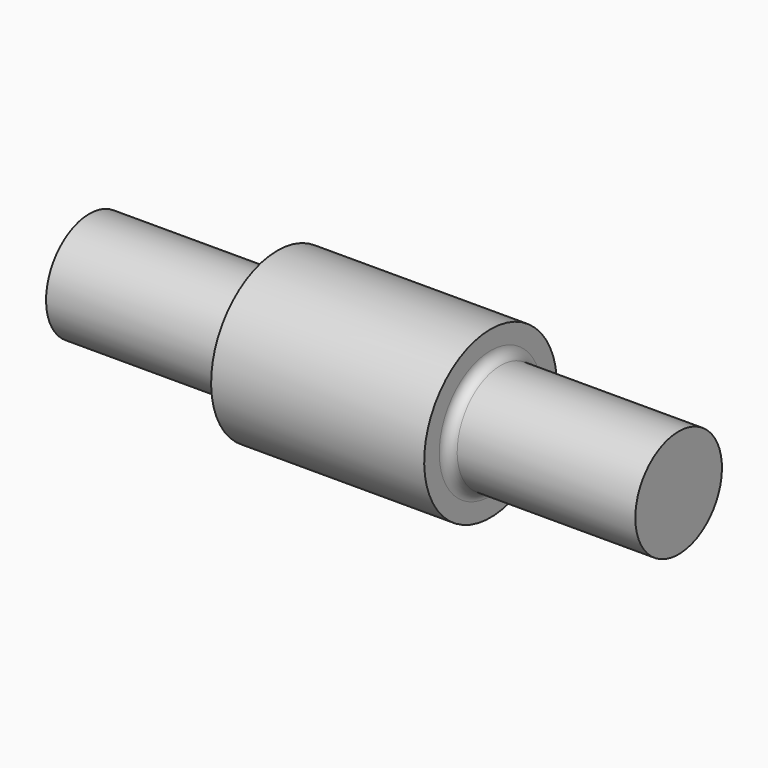
from build123d import *


with BuildPart() as f1:
    # F0 (on Front) → F1 (revolve)
    with BuildSketch(Plane.XZ):
        with BuildLine():
            Line((-59.247646, 10.88649), (-59.247646, 0))
            Line((-59.247646, 0), (59.247646, 0))
            Line((59.247646, 0), (59.247646, 10.88649))
            Line((59.247646, 10.88649), (23.423296, 10.88649))
            ThreePointArc((23.423296, 10.88649), (22.009082, 11.472277), (21.423296, 12.88649))
            Line((21.423296, 12.88649), (21.423296, 16.679427))
            Line((21.423296, 16.679427), (0, 16.679427))
            Line((0, 16.679427), (-21.423296, 16.679427))
            Line((-21.423296, 16.679427), (-21.423296, 12.88649))
            ThreePointArc((-21.423296, 12.88649), (-22.009082, 11.472277), (-23.423296, 10.88649))
            Line((-23.423296, 10.88649), (-59.247646, 10.88649))
        make_face()
    revolve(axis=Axis((0, 0, 0), (-1, 0, 0)))


solid = f1.part
